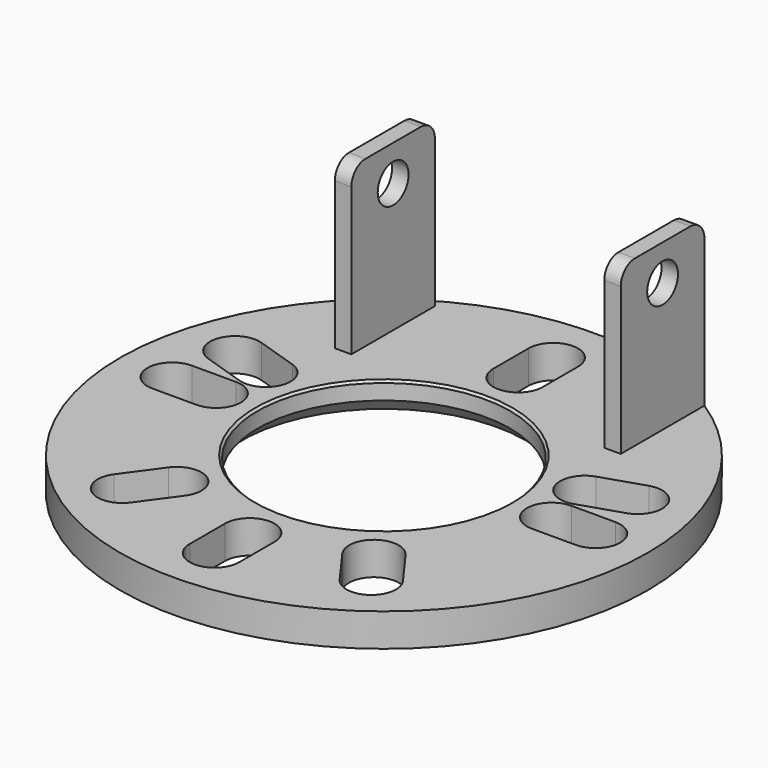
from build123d import *

# Parameters (mm, degrees)
F0_R     = 76.2
F0_R_2   = 36.5125
F1_DEPTH = 9.525
F2_W     = 4.7625
F2_H     = 30.1625
F3_DEPTH = 47.625
F4_SIZE  = 4.445
F6_D     = 11.1125
F7_R     = 5.08
F8_SIZE  = 0.635


with BuildPart() as f1:
    # F0 (on Top) → F1 (new body)
    with BuildSketch(Plane.XY):
        Circle(F0_R)
        with BuildLine():
            Line((-22.680412, -43.370582), (-30.145285, -53.645098))
            ThreePointArc((-30.145285, -53.645098), (-40.123691, -55.225523), (-41.704115, -45.247117))
            Line((-41.704115, -45.247117), (-34.239242, -34.972601))
            ThreePointArc((-34.239242, -34.972601), (-24.260836, -33.392176), (-22.680412, -43.370582))
        make_face(mode=Mode.SUBTRACT)
        with BuildLine():
            ThreePointArc((7.14375, -61.11875), (0, -68.2625), (-7.14375, -61.11875))
            Line((-7.14375, -61.11875), (-7.14375, -48.41875))
            ThreePointArc((-7.14375, -48.41875), (0, -41.275), (7.14375, -48.41875))
            Line((7.14375, -48.41875), (7.14375, -61.11875))
        make_face(mode=Mode.SUBTRACT)
        with BuildLine():
            Line((34.239242, -34.972601), (41.704115, -45.247117))
            ThreePointArc((41.704115, -45.247117), (40.123691, -55.225523), (30.145285, -53.645098))
            Line((30.145285, -53.645098), (22.680412, -43.370582))
            ThreePointArc((22.680412, -43.370582), (24.260836, -33.392176), (34.239242, -34.972601))
        make_face(mode=Mode.SUBTRACT)
        with BuildLine():
            ThreePointArc((-61.11875, -7.14375), (-68.2625, 0), (-61.11875, 7.14375))
            Line((-61.11875, 7.14375), (-48.41875, 7.14375))
            ThreePointArc((-48.41875, 7.14375), (-41.275, 0), (-48.41875, -7.14375))
            Line((-48.41875, -7.14375), (-61.11875, -7.14375))
        make_face(mode=Mode.SUBTRACT)
        with BuildLine():
            Line((-48.256508, 8.168107), (-60.334926, 12.092622))
            ThreePointArc((-60.334926, 12.092622), (-64.921495, 21.094273), (-55.919845, 25.680842))
            Line((-55.919845, 25.680842), (-43.841428, 21.756327))
            ThreePointArc((-43.841428, 21.756327), (-39.254858, 12.754676), (-48.256508, 8.168107))
        make_face(mode=Mode.SUBTRACT)
        Circle(F0_R_2, mode=Mode.SUBTRACT)
        with BuildLine():
            ThreePointArc((61.11875, 7.14375), (68.2625, 0), (61.11875, -7.14375))
            Line((61.11875, -7.14375), (48.41875, -7.14375))
            ThreePointArc((48.41875, -7.14375), (41.275, 0), (48.41875, 7.14375))
            Line((48.41875, 7.14375), (61.11875, 7.14375))
        make_face(mode=Mode.SUBTRACT)
        with BuildLine():
            Line((43.841428, 21.756327), (55.919845, 25.680842))
            ThreePointArc((55.919845, 25.680842), (64.921495, 21.094273), (60.334926, 12.092622))
            Line((60.334926, 12.092622), (48.256508, 8.168107))
            ThreePointArc((48.256508, 8.168107), (39.254858, 12.754676), (43.841428, 21.756327))
        make_face(mode=Mode.SUBTRACT)
        with BuildLine():
            ThreePointArc((-7.14375, 61.11875), (0, 68.2625), (7.14375, 61.11875))
            Line((7.14375, 61.11875), (7.14375, 48.41875))
            ThreePointArc((7.14375, 48.41875), (0, 41.275), (-7.14375, 48.41875))
            Line((-7.14375, 48.41875), (-7.14375, 61.11875))
        make_face(mode=Mode.SUBTRACT)
    extrude(amount=F1_DEPTH)

    # F2 (on face) → F3 (join)
    with BuildSketch(Plane.XY.offset(9.525)):
        with Locations((38.89375, 48.971965)):
            Rectangle(F2_W, F2_H)
        with Locations((-38.89375, 48.971965)):
            Rectangle(F2_W, F2_H)
    extrude(amount=F3_DEPTH)

    # F4
    f4_edges = [f1.edges().sort_by_distance(p)[0] for p in [
        (-36.5125, 0, 0),
    ]]
    chamfer(f4_edges, length=F4_SIZE)

    # F6 (through all)
    with Locations(Plane.YZ.offset(41.275)):
        with Locations((48.971965, 46.83125)):
            Hole(F6_D / 2)

    # F7
    f7_edges = [f1.edges().sort_by_distance(p)[0] for p in [
        (38.89375, 33.890715, 57.15),
        (38.89375, 64.053215, 57.15),
        (-38.89375, 33.890715, 57.15),
        (-38.89375, 64.053215, 57.15),
    ]]
    fillet(f7_edges, radius=F7_R)

    # F8
    f8_edges = [f1.edges().sort_by_distance(p)[0] for p in [
        (-36.5125, 0, 9.525),
    ]]
    chamfer(f8_edges, length=F8_SIZE)


solid = f1.part
